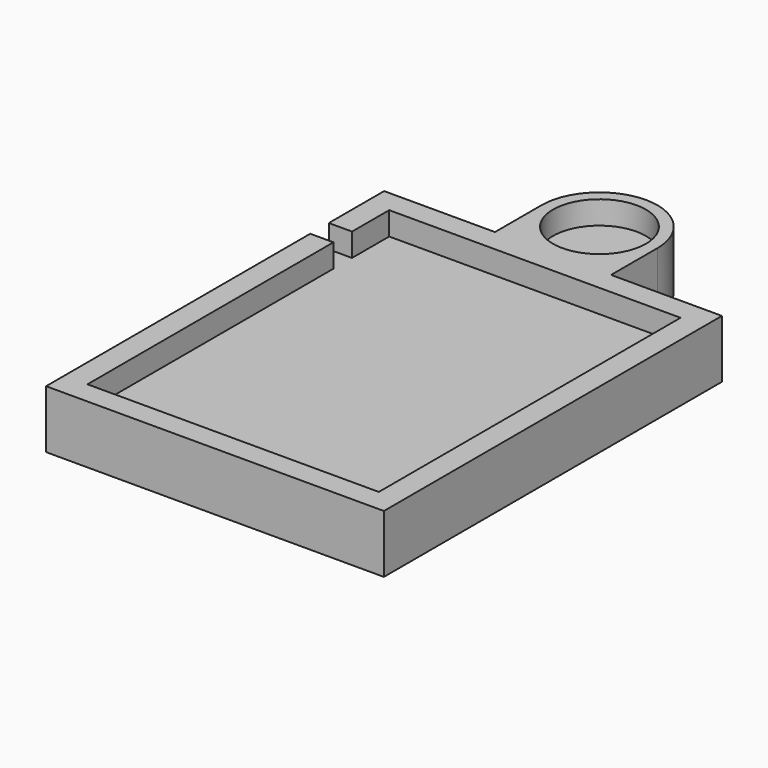
from build123d import *

# Parameters (mm, degrees)
F1_DEPTH = 3
F0_R     = 4
F2_DEPTH = 5
F3_DEPTH = 2


with BuildPart() as f1:
    # F0 (on Top) → F1 (new body)
    with BuildSketch(Plane.XY):
        Polygon((-12.55, -16.2437940022), (12.55, -16.2437940022), (12.55, 16.2437940022), (-12.55, 16.2437940022), (-12.55, 12.2437940022), (-12.55, 10.2437940022), align=None)
    extrude(amount=F1_DEPTH)



with BuildPart() as f1b:
    # F0 (on Top) → F1, piece 2 (new body)
    with BuildSketch(Plane.XY):
        with Locations((0, 23.1997125853)):
            Circle(F0_R)
    extrude(amount=F1_DEPTH)


with BuildPart() as f1_1:
    add(f1.part)

    add(f1b.part)  # F2 merges F1b
    # F0 (on Top) → F2 (join)
    with BuildSketch(Plane.XY):
        Polygon((12.55, 16.2437940022), (12.55, -16.2437940022), (-12.55, -16.2437940022), (-12.55, 10.2437940022), (-14.55, 10.2437940022), (-14.55, -18.1997125853), (2.482398646, -18.1997125853), (14.55, -18.1997125853), (14.55, 18.1997125853), (5, 18.1997125853), (0, 18.1997125853), (-5, 18.1997125853), (-14.55, 18.1997125853), (-14.55, 12.2437940022), (-12.55, 12.2437940022), (-12.55, 16.2437940022), align=None)
        with BuildLine():
            ThreePointArc((-5, 23.1997125853), (-3.5355339059, 19.6641786794), (0, 18.1997125853))
            ThreePointArc((0, 18.1997125853), (3.5355339059, 19.6641786794), (5, 23.1997125853))
            ThreePointArc((5, 23.1997125853), (0, 28.1997125853), (-5, 23.1997125853))
        make_face()
        with Locations((0, 23.1997125853)):
            Circle(F0_R, mode=Mode.SUBTRACT)
        with BuildLine():
            ThreePointArc((5, 23.1997125853), (3.5355339059, 19.6641786794), (0, 18.1997125853))
            Line((0, 18.1997125853), (5, 18.1997125853))
            Line((5, 18.1997125853), (5, 19.1997125853))
            Line((5, 19.1997125853), (5, 20.1997125853))
            Line((5, 20.1997125853), (5, 23.1997125853))
        make_face()
        with BuildLine():
            Line((-5, 23.1997125853), (-5, 18.1997125853))
            Line((-5, 18.1997125853), (0, 18.1997125853))
            ThreePointArc((0, 18.1997125853), (-3.5355339059, 19.6641786794), (-5, 23.1997125853))
        make_face()
    extrude(amount=F2_DEPTH)

    # F3 (add): a face of the model
    f3_faces = [f1_1.faces().sort_by_distance(p)[0] for p in [
        (-12.55, 11.2437940022, 1.5),
    ]]
    extrude(f3_faces, amount=F3_DEPTH)


solid = f1_1.part
